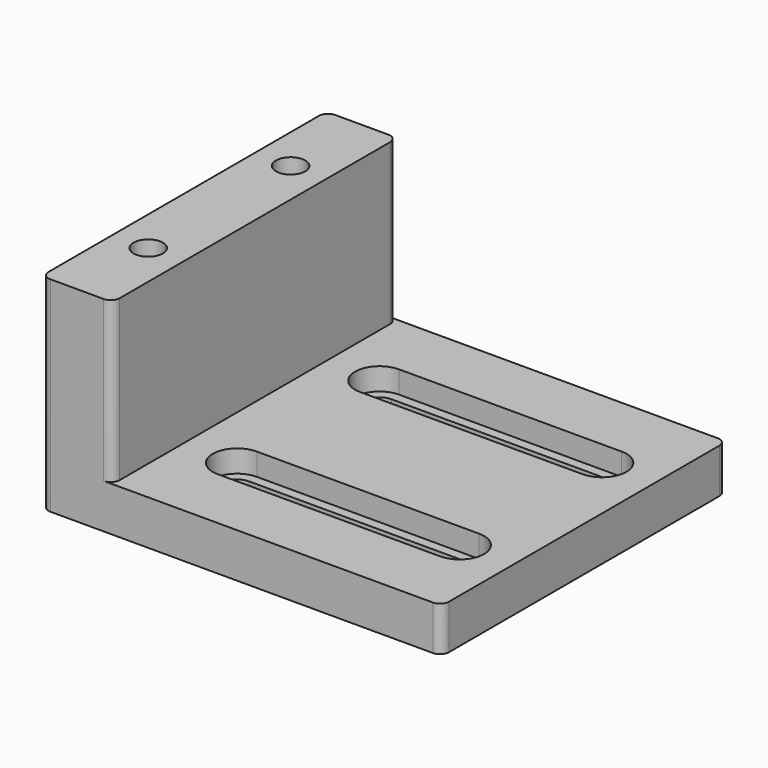
from build123d import *

# Parameters (mm, degrees)
F0_W      = 8
F0_H      = 18
F1_DEPTH  = 20
F2_R      = 1
F4_DEPTH  = 5
F6_DEPTH  = 2.5
F8_D      = 3.3
F8_DEPTH  = 10
F8_TIP    = 0.9914200214
F9_W      = 5.5
F9_H      = 2.5
F10_DEPTH = 7.35


with BuildPart() as f1:
    # F0 (on Front) → F1 (new body, symmetric)
    with BuildSketch(Plane.XZ):
        Polygon((-22.5, -2.5), (22.5, -2.5), (22.5, 2.5), (-14.5, 2.5), (-22.5, 2.5), align=None)
        with Locations((-18.5, 11.5)):
            Rectangle(F0_W, F0_H)
    extrude(amount=F1_DEPTH, both=True)

    # F2
    f2_edges = [f1.edges().sort_by_distance(p)[0] for p in [
        (-22.5, -20, 9),
        (-14.5, -20, 11.5),
        (22.5, -20, 0),
        (22.5, 20, 0),
        (-22.5, 20, 9),
        (-14.5, 20, 11.5),
    ]]
    fillet(f2_edges, radius=F2_R)

    # F3 (on face) → F4 (cut)
    with BuildSketch(Plane.XY.offset(2.5)):
        with BuildLine():
            ThreePointArc((-8.5, 11.65), (-10.15, 10), (-8.5, 8.35))
            Line((-8.5, 8.35), (16.5, 8.35))
            ThreePointArc((16.5, 8.35), (18.15, 10), (16.5, 11.65))
            Line((16.5, 11.65), (-8.5, 11.65))
        make_face()
        with BuildLine():
            ThreePointArc((-8.5, -8.35), (-10.15, -10), (-8.5, -11.65))
            Line((-8.5, -11.65), (16.5, -11.65))
            ThreePointArc((16.5, -11.65), (18.15, -10), (16.5, -8.35))
            Line((16.5, -8.35), (-8.5, -8.35))
        make_face()
    extrude(amount=-F4_DEPTH, mode=Mode.SUBTRACT)

    # F5 (on face) → F6 (cut)
    with BuildSketch(Plane.XY.offset(2.5)):
        with BuildLine():
            ThreePointArc((-8.5, 12.75), (-11.25, 10), (-8.5, 7.25))
            Line((-8.5, 7.25), (16.5, 7.25))
            ThreePointArc((16.5, 7.25), (19.25, 10), (16.5, 12.75))
            Line((16.5, 12.75), (-8.5, 12.75))
        make_face()
        with BuildLine():
            ThreePointArc((-8.5, -7.25), (-11.25, -10), (-8.5, -12.75))
            Line((-8.5, -12.75), (16.5, -12.75))
            ThreePointArc((16.5, -12.75), (19.25, -10), (16.5, -7.25))
            Line((16.5, -7.25), (-8.5, -7.25))
        make_face()
    extrude(amount=-F6_DEPTH, mode=Mode.SUBTRACT)

    # F8
    with Locations(Plane.XY.offset(20.5)):
        with Locations((-18.5, 10), (-18.5, -10)):
            Hole(F8_D / 2, depth=F8_DEPTH)
            with Locations((0, 0, -(F8_DEPTH + F8_TIP / 2))):  # 118° drill point
                Cone(0, F8_D / 2, F8_TIP, mode=Mode.SUBTRACT)

    # F9 (on face) → F10 (cut)
    with BuildSketch(Plane(origin=(-22.5, 0, 0), x_dir=(0, -1, 0), z_dir=(-1, 0, 0))):
        with Locations((-10, 15.5)):
            Rectangle(F9_W, F9_H)
        with Locations((10, 15.5)):
            Rectangle(F9_W, F9_H)
    extrude(amount=-F10_DEPTH, mode=Mode.SUBTRACT)


solid = f1.part
